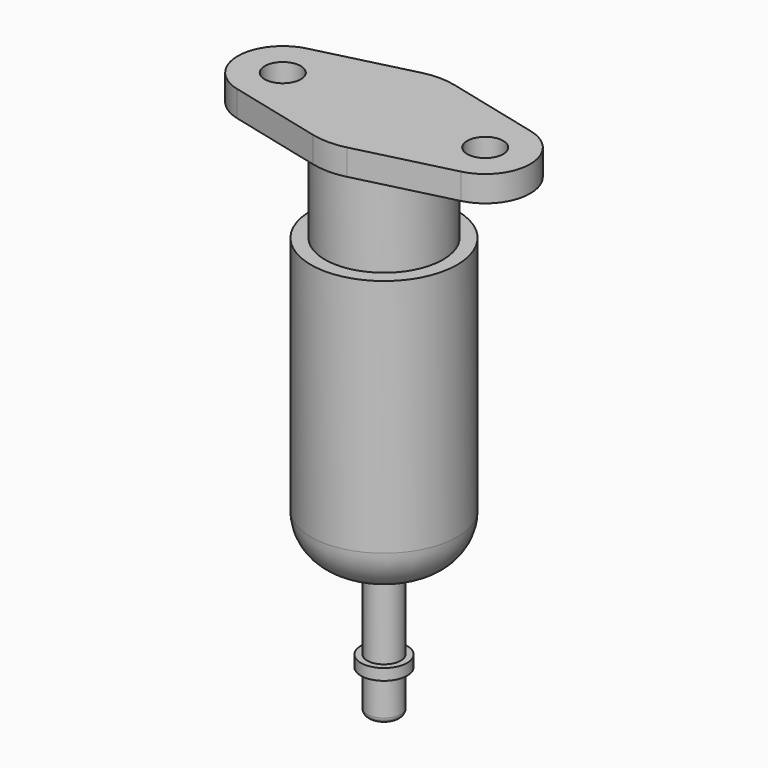
from build123d import *

# Parameters (mm, degrees)
F0_W      = 1.5
F0_H      = 12
F2_R      = 6.5
F3_DEPTH  = 25.3
F4_R      = 5.25
F5_DEPTH  = 7.7
F6_R      = 1.6
F7_DEPTH  = 2.3
F8_R      = 4
F9_R      = 0.5
F10_R     = 2.056885
F11_DEPTH = 1


with BuildPart() as f1:
    # F0 (on Front) → F1 (revolve)
    with BuildSketch(Plane.XZ):
        with Locations((-0.75, 2.3)):
            Rectangle(F0_W, F0_H)
    revolve(axis=Axis((0, 0, -10.260424), (0, 0, -1)))

    # F2 (on face) → F3 (join)
    with BuildSketch(Plane.XY.offset(8.3)):
        Circle(F2_R)
    extrude(amount=F3_DEPTH)

    # F4 (on face) → F5 (join)
    with BuildSketch(Plane.XY.offset(33.6)):
        Circle(F4_R)
    extrude(amount=F5_DEPTH)

    # F6 (on face) → F7 (join)
    with BuildSketch(Plane.XY.offset(41.3)):
        with BuildLine():
            Line((-1.494822, 5.994148), (-9.967878, 3.881135))
            ThreePointArc((-9.967878, 3.881135), (-13, 0), (-9.967878, -3.881135))
            Line((-9.967878, -3.881135), (-1.494822, -5.994148))
            ThreePointArc((-1.494822, -5.994148), (0, -6.177726), (1.494822, -5.994148))
            Line((1.494822, -5.994148), (9.967878, -3.881135))
            ThreePointArc((9.967878, -3.881135), (13, 0), (9.967878, 3.881135))
            Line((9.967878, 3.881135), (1.494822, 5.994148))
            ThreePointArc((1.494822, 5.994148), (0, 6.177726), (-1.494822, 5.994148))
        make_face()
        with Locations((-9, 0)):
            Circle(F6_R, mode=Mode.SUBTRACT)
        with Locations((9, 0)):
            Circle(F6_R, mode=Mode.SUBTRACT)
    extrude(amount=F7_DEPTH)

    # F8
    f8_edges = [f1.edges().sort_by_distance(p)[0] for p in [
        (-6.5, 0, 8.3),
    ]]
    fillet(f8_edges, radius=F8_R)

    # F9
    f9_edges = [f1.edges().sort_by_distance(p)[0] for p in [
        (1.5, 0, -3.7),
    ]]
    fillet(f9_edges, radius=F9_R)

    # F10 (on Top) → F11 (join)
    with BuildSketch(Plane.XY):
        Circle(F10_R)
    extrude(amount=F11_DEPTH)


solid = f1.part
